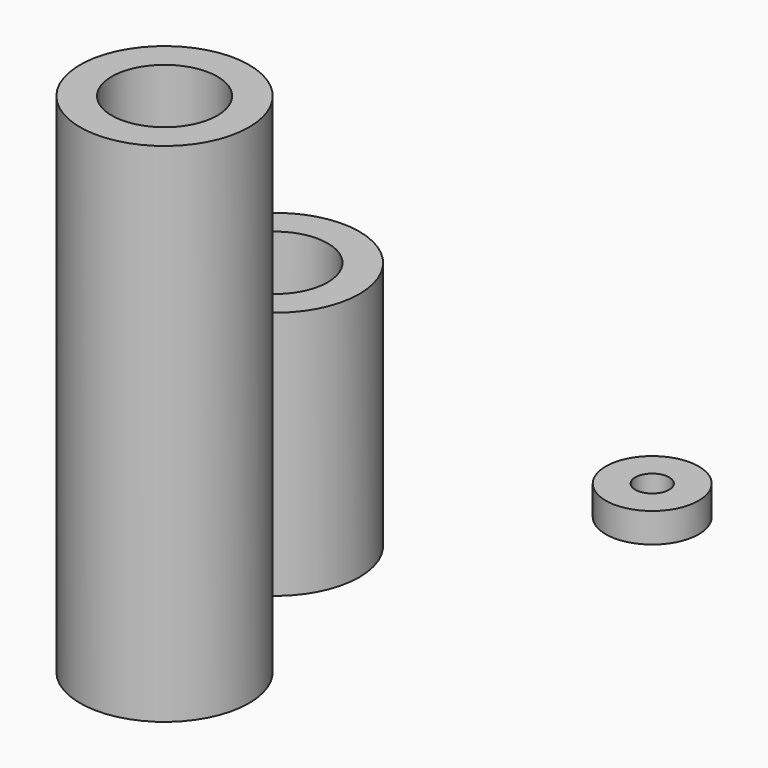
from build123d import *

# Parameters (mm, degrees)
F0_R     = 20
F0_R_2   = 12.5
F1_DEPTH = 59
F2_R     = 11
F2_R_2   = 4
F3_DEPTH = 7
F4_DEPTH = 120


with BuildPart() as f1:
    # F0 (on Top) → F1 (new body)
    with BuildSketch(Plane.XY):
        Circle(F0_R)
        Circle(F0_R_2, mode=Mode.SUBTRACT)
    extrude(amount=F1_DEPTH)


with BuildPart() as f3:
    # F2 (on Top) → F3 (new body)
    with BuildSketch(Plane.XY):
        with Locations((47.24199, 52.579038)):
            Circle(F2_R)
        with Locations((47.24199, 52.579038)):
            Circle(F2_R_2, mode=Mode.SUBTRACT)
    extrude(amount=F3_DEPTH)


with BuildPart() as f4:
    # F0 (on Top) → F4 (new body)
    with BuildSketch(Plane.XY):
        with Locations((15.579269, -52.121885)):
            Circle(F0_R)
        with Locations((15.579269, -52.121885)):
            Circle(F0_R_2, mode=Mode.SUBTRACT)
    extrude(amount=F4_DEPTH)


solid = Compound([f1.part, f3.part, f4.part])
